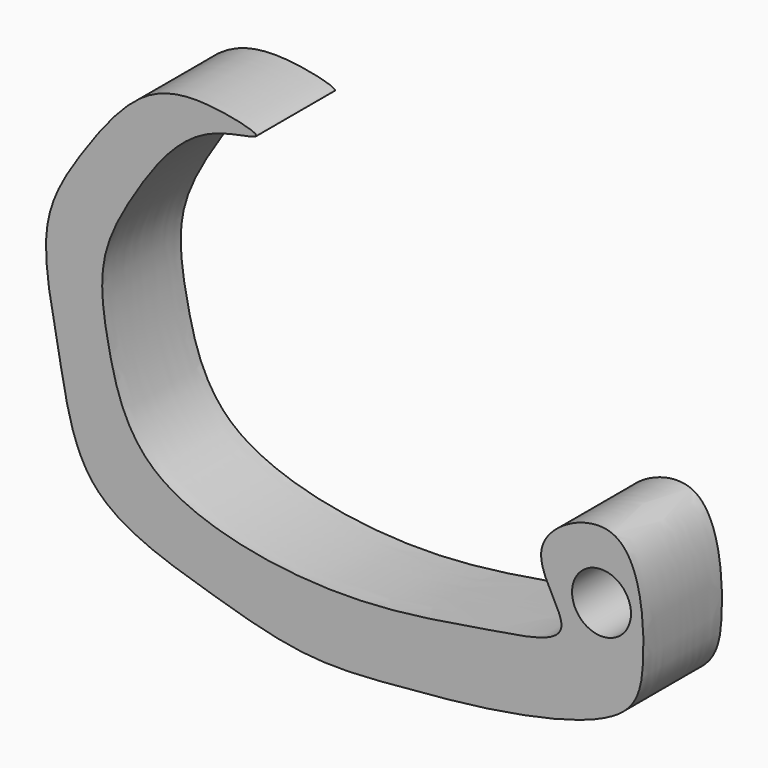
from build123d import *

# Parameters (mm, degrees)
F0_R     = 3.0000000261
F1_DEPTH = 10


with BuildPart() as f1:
    # F0 (on Front) → F1 (new body)
    with BuildSketch(Plane.XZ):
        with BuildLine():
            add(Edge.make_bspline(
                [(32.4392083615, 3.8739659384), (35.2442670849, 2.7258917013), (36.0926540647, -6.7222919848), (34.4295955342, -12.9969382642), (21.0860198106, -16.0432326674), (11.6624840958, -16.7827600213), (1.4172445919, -17.7760066432), (-9.0616829438, -14.6111244296), (-22.0016855268, -10.5713662248), (-23.7337018158, 1.9010739471), (-26.3685563312, 12.9167105277), (-21.5274180561, 20.6556819929), (-15.7811333338, 28.2988342977), (-9.4970385455, 29.425221644), (-1.1486626552, 27.4754786417), (-10.3081598724, 27.167505827), (-16.3433463679, 18.6405524744), (-20.1046521108, 11.5269109576), (-18.9068101916, 3.4320809006), (-15.7886631562, -7.8957534167), (4.5488605607, -11.7168223686), (18.7768050819, -8.9094888745), (30.2243511455, -7.3514694371), (21.8957670353, 0.6495374985), (29.9809031097, 4.8801184667), (32.4392083615, 3.8739659384)],
                knots=[0, 0, 0, 0, 0.045873881, 0.0810245539, 0.1306948964, 0.1756467012, 0.2198177289, 0.2671461266, 0.3165116223, 0.3645084781, 0.4113242758, 0.4530947107, 0.4956123147, 0.5323559236, 0.5640063123, 0.5958876481, 0.6422561724, 0.681837373, 0.7212449941, 0.7665458815, 0.8277253389, 0.8850627513, 0.923406584, 0.9597969192, 1, 1, 1, 1], degree=3))
        make_face()
        with Locations((31.3500054181, -2.70000007)):
            Circle(F0_R, mode=Mode.SUBTRACT)
    extrude(amount=F1_DEPTH)


solid = f1.part
